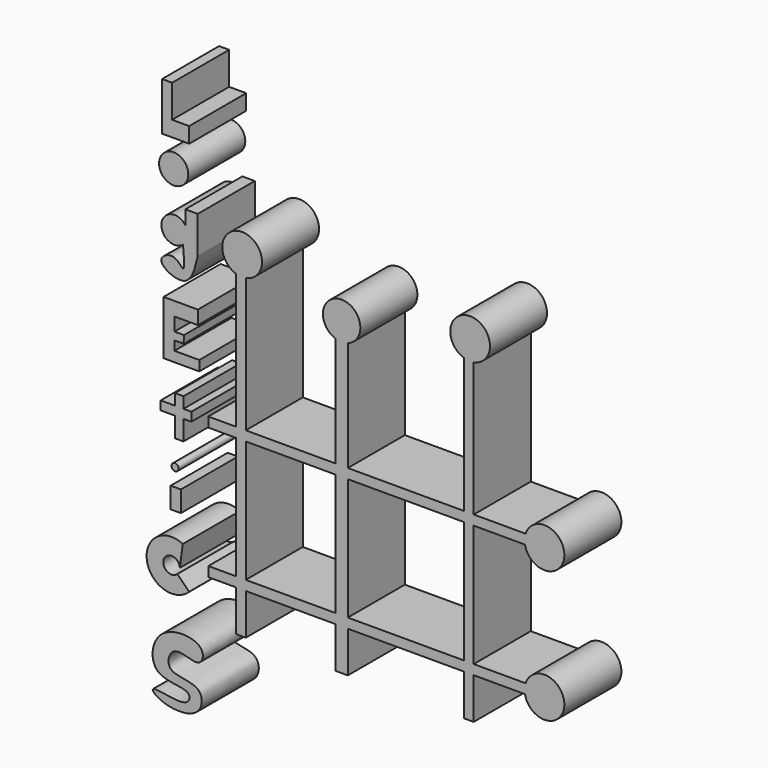
from build123d import *

# Parameters (mm, degrees)
F0_W     = 9.8507367074
F0_H     = 3.4890137613
F0_W_2   = 31.9427670911
F0_W_3   = 3.4890137613
F0_H_2   = 14.6538503468
F0_H_3   = 43.4130015783
F0_W_4   = 4.4191554189
F0_W_5   = 41.3637673482
F1_DEPTH = 25.4
F0_W_6   = 5.1169246435
F0_H_4   = 3.1399279833
F0_W_7   = 3.0236318707
F0_H_5   = 7.0939101279
F0_H_6   = 3.9539821446
F0_W_8   = 2.7910470963
F2_DEPTH = 25.4
F0_R     = 5.1967382393
F0_W_9   = 3.6564849102
F0_H_7   = 7.4427872896
F0_R_2   = 1.2833046995


with BuildPart() as f1:
    # F0 (on Front) → F1 (new body)
    with BuildSketch(Plane.XZ):
        with Locations((-52.2910859436, 6.3165067695)):
            Rectangle(F0_W, F0_H)
        with Locations((-52.2910859436, -40.5855085701)):
            Rectangle(F0_W, F0_H)
        with Locations((-27.905320283, -40.5855085701)):
            Rectangle(F0_W_2, F0_H)
        with Locations((-45.6212107092, -40.5855085701)):
            Rectangle(F0_W_3, F0_H)
        with Locations((-45.6212107092, -49.6569406241)):
            Rectangle(F0_W_3, F0_H_2)
        with Locations((-45.6212107092, -17.1345009003)):
            Rectangle(F0_W_3, F0_H_3)
        with Locations((-45.6212107092, 6.3165067695)):
            Rectangle(F0_W_3, F0_H)
        with BuildLine():
            Line((-47.3657175899, 56.0535229743), (-47.3657175899, 8.0610136501))
            Line((-47.3657175899, 8.0610136501), (-43.8767038286, 8.0610136501))
            Line((-43.8767038286, 8.0610136501), (-43.8767038286, 55.8209344745))
            ThreePointArc((-43.8767038286, 55.8209344745), (-44.6944103907, 69.8399757149), (-47.3657175899, 56.0535229743))
        make_face()
        with Locations((-27.905320283, 6.3165067695)):
            Rectangle(F0_W_2, F0_H)
        with BuildLine():
            Line((-11.9339367375, 47.2152009606), (-11.9339367375, 8.0610136501))
            Line((-11.9339367375, 8.0610136501), (-7.5147813186, 8.0610136501))
            Line((-7.5147813186, 8.0610136501), (-7.5147813186, 47.2152009606))
            ThreePointArc((-7.5147813186, 47.2152009606), (-9.724359028, 60.1719479535), (-11.9339367375, 47.2152009606))
        make_face()
        with Locations((-9.724359028, 6.3165067695)):
            Rectangle(F0_W_4, F0_H)
        with Locations((-9.724359028, -17.1345009003)):
            Rectangle(F0_W_4, F0_H_3)
        with Locations((-9.724359028, -49.6569406241)):
            Rectangle(F0_W_4, F0_H_2)
        with Locations((-9.724359028, -40.5855085701)):
            Rectangle(F0_W_4, F0_H)
        with Locations((13.1671023555, -40.5855085701)):
            Rectangle(F0_W_5, F0_H)
        with Locations((35.5934929103, -49.6569406241)):
            Rectangle(F0_W_3, F0_H_2)
        with Locations((35.5934929103, -40.5855085701)):
            Rectangle(F0_W_3, F0_H)
        with BuildLine():
            Line((37.3379997909, -38.8410016894), (37.3379997909, -42.3300154507))
            Line((37.3379997909, -42.3300154507), (55.5883459747, -42.3300154507))
            ThreePointArc((55.5883459747, -42.3300154507), (69.6073872151, -41.5123088886), (55.8209344745, -38.8410016894))
            Line((55.8209344745, -38.8410016894), (37.3379997909, -38.8410016894))
        make_face()
        with Locations((35.5934929103, -17.1345009003)):
            Rectangle(F0_W_3, F0_H_3)
        with BuildLine():
            Line((37.3379997909, 8.0610136501), (37.3379997909, 4.5719998889))
            Line((37.3379997909, 4.5719998889), (55.5883459747, 4.5719998889))
            ThreePointArc((55.5883459747, 4.5719998889), (69.6073872151, 5.3897064509), (55.8209344745, 8.0610136501))
            Line((55.8209344745, 8.0610136501), (37.3379997909, 8.0610136501))
        make_face()
        with BuildLine():
            Line((33.8489860296, 56.0535229743), (33.8489860296, 8.0610136501))
            Line((33.8489860296, 8.0610136501), (37.3379997909, 8.0610136501))
            Line((37.3379997909, 8.0610136501), (37.3379997909, 55.8209344745))
            ThreePointArc((37.3379997909, 55.8209344745), (36.5202932288, 69.8399757149), (33.8489860296, 56.0535229743))
        make_face()
        with Locations((13.1671023555, 6.3165067695)):
            Rectangle(F0_W_5, F0_H)
        with Locations((35.5934929103, 6.3165067695)):
            Rectangle(F0_W_3, F0_H)
    extrude(amount=F1_DEPTH)


with BuildPart() as f2:
    # F0 (on Front) → F2 (new body)
    with BuildSketch(Plane.XZ):
        with Locations((-71.6368630528, 6.0186273309)):
            Rectangle(F0_W_6, F0_H_4)
        with Locations((-67.5665847957, 0.9017082753)):
            Rectangle(F0_W_7, F0_H_5)
        with Locations((-67.5665847957, 9.5655823948)):
            Rectangle(F0_W_7, F0_H_6)
        with Locations((-67.5665847957, 6.0186273309)):
            Rectangle(F0_W_7, F0_H_4)
        with Locations((-64.6592453122, 6.0186273309)):
            Rectangle(F0_W_8, F0_H_4)
    extrude(amount=F2_DEPTH)


with BuildPart() as f2b:
    # F0 (on Front) → F2, piece 2 (new body)
    with BuildSketch(Plane.XZ):
        Polygon((-73.7104713917, 108.5439919384), (-73.7104713917, 91.3951433154), (-64.0296712518, 91.3951433154), (-64.0296712518, 96.9270280453), (-70.1147392392, 96.9270280453), (-70.1147392392, 108.5439919384), align=None)
    extrude(amount=F2_DEPTH)


with BuildPart() as f2c:
    # F0 (on Front) → F2, piece 3 (new body)
    with BuildSketch(Plane.XZ):
        with Locations((-69.5615559816, 81.7143394502)):
            Circle(F0_R)
    extrude(amount=F2_DEPTH)


with BuildPart() as f2d:
    # F0 (on Front) → F2, piece 4 (new body)
    with BuildSketch(Plane.XZ):
        with BuildLine():
            Line((-65.4126405716, 70.3739709111), (-65.4126405716, 65.3952731641))
            ThreePointArc((-65.4126405716, 65.3952731641), (-73.9051892905, 63.2680400691), (-66.2424191833, 59.0336028377))
            add(Edge.make_bspline(
                [(-60.9871298075, 57.0974414127), (-61.9889474625, 52.7296038919), (-63.8884989801, 44.4477250988), (-77.4963185642, 51.284080588), (-69.0709651341, 55.8599044946), (-65.2884945242, 48.7801644894), (-65.8949600856, 55.2988734727), (-66.2424191833, 59.0336028377)],
                knots=[0, 0, 0, 0, 0.2476335337, 0.4695391946, 0.6396955796, 0.7935726994, 1, 1, 1, 1], degree=3))
            Line((-60.9871298075, 57.0974414127), (-60.9871298075, 70.3739709111))
            Line((-60.9871298075, 70.3739709111), (-65.4126405716, 70.3739709111))
        make_face()
    extrude(amount=F2_DEPTH)


with BuildPart() as f2e:
    # F0 (on Front) → F2, piece 5 (new body)
    with BuildSketch(Plane.XZ):
        Polygon((-73.1572806835, 40.3833891155), (-73.1572806835, 21.1401748361), (-60.4339390993, 21.1401748361), (-60.4339390993, 24.735899538), (-69.2849606276, 24.735899538), (-69.2849606276, 28.0047529326), (-66.0128377816, 28.0047529326), (-65.8949600856, 30.7617819758), (-69.2849606276, 30.7617819758), (-69.2849606276, 35.4990566971), (-60.9378479421, 35.4990566971), (-60.9378479421, 40.3833891155), align=None)
    extrude(amount=F2_DEPTH)


with BuildPart() as f2f:
    # F0 (on Front) → F2, piece 6 (new body)
    with BuildSketch(Plane.XZ):
        with Locations((-68.813357864, -21.7173957376)):
            Rectangle(F0_W_9, F0_H_7)
    extrude(amount=F2_DEPTH)


with BuildPart() as f2g:
    # F0 (on Front) → F2, piece 7 (new body)
    with BuildSketch(Plane.XZ):
        with BuildLine():
            Line((-67.3720020821, -42.7343076319), (-66.3316222388, -34.8951487614))
            ThreePointArc((-66.3316222388, -34.8951487614), (-79.093186567, -44.2611262053), (-64.0296712518, -49.126263812))
            Line((-64.0296712518, -49.126263812), (-68.2318065404, -44.9241285233))
            ThreePointArc((-68.2318065404, -44.9241285233), (-73.0606512575, -41.7644400461), (-67.3720020821, -42.7343076319))
        make_face()
    extrude(amount=F2_DEPTH)


with BuildPart() as f2h:
    # F0 (on Front) → F2, piece 8 (new body)
    with BuildSketch(Plane.XZ):
        with BuildLine():
            add(Edge.make_bspline(
                [(-74.1953253746, -86.3896423129), (-70.4109551605, -88.131606249), (-59.3599537865, -88.7094340251), (-58.7400193545, -76.1045887758), (-73.2794475524, -78.0048591611), (-70.1122496821, -66.3158765134), (-59.8171762304, -72.9719325966), (-57.696544028, -62.9367087926), (-76.7071447675, -61.8019575221), (-78.9100631684, -81.1171179075), (-62.7540064168, -78.9741899419), (-64.5504609327, -86.6819772412), (-79.7802473657, -81.7704717279), (-76.2275532765, -85.4541979682), (-74.1953253746, -86.3896423129)],
                knots=[0, 0, 0, 0, 0.1035349913, 0.1803841618, 0.272970608, 0.3435713815, 0.4273886246, 0.4905453099, 0.5971582871, 0.6978558253, 0.7948177615, 0.8473999008, 0.9444011325, 1, 1, 1, 1], degree=3))
        make_face()
    extrude(amount=F2_DEPTH)


with BuildPart() as f2i:
    # F0 (on Front) → F2, piece 9 (new body)
    with BuildSketch(Plane.XZ):
        with Locations((-69.0784007311, -11.7161461262)):
            Circle(F0_R_2)
    extrude(amount=F2_DEPTH)


solid = Compound([f1.part, f2.part, f2b.part, f2c.part, f2d.part, f2e.part, f2f.part, f2g.part, f2h.part, f2i.part])
